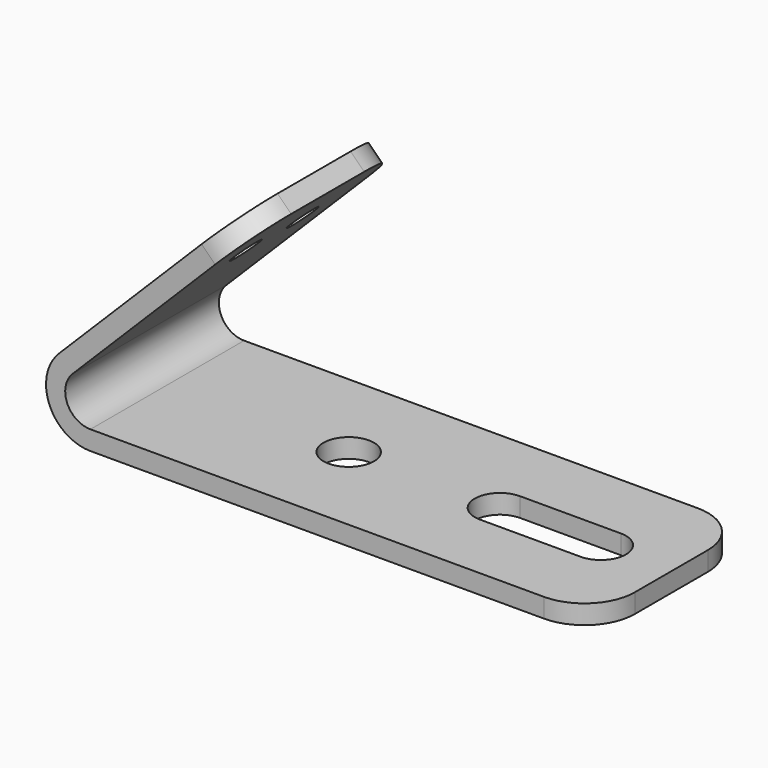
from build123d import *

# Parameters (mm, degrees)
F1_DEPTH = 9.525
F2_R     = 2.5
F3_DEPTH = 1.901
F4_R     = 1.5
F5_DEPTH = 1.9
F6_R     = 5


with BuildPart() as f1:
    # F0 (on Front) → F1 (new body, symmetric)
    with BuildSketch(Plane.XZ):
        with BuildLine():
            Line((-50, 0), (0, 0))
            Line((0, 0), (0, 1.9))
            Line((0, 1.9), (-50, 1.9))
            ThreePointArc((-50, 1.9), (-52.3096988313, 3.4432914191), (-51.767766953, 6.167766953))
            Line((-51.767766953, 6.167766953), (-34.0900974233, 23.8454364826))
            Line((-34.0900974233, 23.8454364826), (-35.4336003076, 25.1889393669))
            Line((-35.4336003076, 25.1889393669), (-53.1112698372, 7.5112698372))
            ThreePointArc((-53.1112698372, 7.5112698372), (-54.065069943, 2.7161928976), (-50, 0))
        make_face()
    extrude(amount=F1_DEPTH, both=True)

    # F2 (on face) → F3 (cut, through all)
    with BuildSketch(Plane.XY.offset(1.9)):
        with Locations((-32, 0)):
            Circle(F2_R)
        with BuildLine():
            Line((-7, 2.5), (-17, 2.5))
            ThreePointArc((-17, 2.5), (-19.5, 0), (-17, -2.5))
            Line((-17, -2.5), (-7, -2.5))
            ThreePointArc((-7, -2.5), (-4.5, 0), (-7, 2.5))
        make_face()
    extrude(amount=-F3_DEPTH, mode=Mode.SUBTRACT)

    # F4 (on face) → F5 (cut, through all)
    with BuildSketch(Plane(origin=(-30.3112698372, 0, 30.3112698372), x_dir=(0, -1, 0), z_dir=(-0.7071067812, 0, 0.7071067812))):
        with Locations((-3.525, -14.7440692221)):
            Circle(F4_R)
        with Locations((3.525, -14.7440692221)):
            Circle(F4_R)
    extrude(amount=-F5_DEPTH, mode=Mode.SUBTRACT)

    # F6
    f6_edges = [f1.edges().sort_by_distance(p)[0] for p in [
        (-34.761849, -9.525, 24.517188),
        (-34.761849, 9.525, 24.517188),
        (0, -9.525, 0.95),
        (0, 9.525, 0.95),
    ]]
    fillet(f6_edges, radius=F6_R)


solid = f1.part
